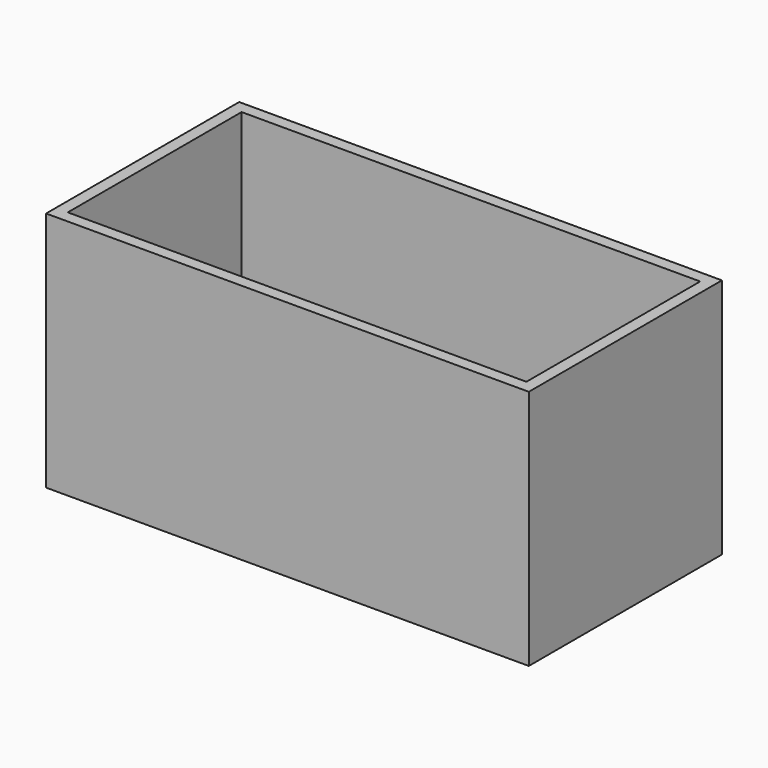
from build123d import *

# Parameters (mm, degrees)
F0_W      = 254
F0_H      = 127
F1_DEPTH  = 38.1
F1_FACE_W = 254
F1_FACE_H = 127
F2_DEPTH  = 88.9
F3_W      = 241.3
F3_H      = 114.3
F4_DEPTH  = 101.6


with BuildPart() as f1:
    # F0 (on Top) → F1 (new body)
    with BuildSketch(Plane.XY):
        with Locations((25.4, 0)):
            Rectangle(F0_W, F0_H)
    extrude(amount=F1_DEPTH)

    # F1_face (on face) + F0 (on Top) → F2 (join)
    with BuildSketch(Plane(origin=(25.4, 0, 0), x_dir=(1, 0, 0), z_dir=(0, 0, -1))):
        Rectangle(F1_FACE_W, F1_FACE_H)
    with BuildSketch(Plane.XY):
        with Locations((25.4, 0)):
            Rectangle(F0_W, F0_H)
    extrude(amount=F2_DEPTH, dir=(0, 0, -1))

    # F3 (on face) → F4 (cut)
    with BuildSketch(Plane.XY.offset(38.1)):
        with Locations((25.4, 0)):
            Rectangle(F3_W, F3_H)
    extrude(amount=-F4_DEPTH, mode=Mode.SUBTRACT)


solid = f1.part
